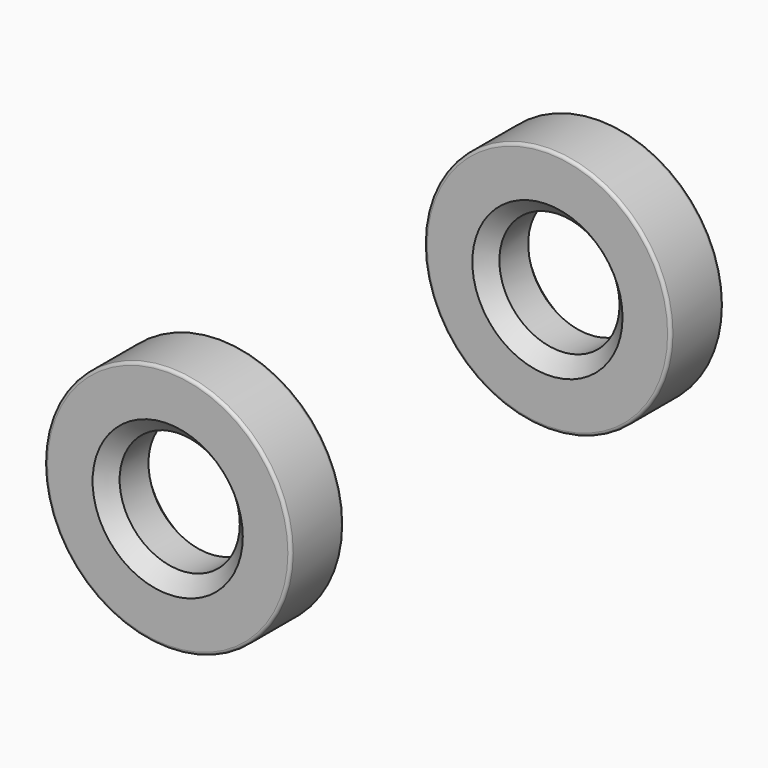
from build123d import *

# Parameters (mm, degrees)
CYLINDER279_R          = 20
CYLINDER279_DEPTH      = 22
CYLINDER279_ROLL_ANGLE = 90
CYLINDER278_R          = 41
CYLINDER278_DEPTH      = 22
CYLINDER278_ROLL_ANGLE = 90
FILLET261_R            = 1
CYLINDER277_R          = 20
CYLINDER277_DEPTH      = 22
CYLINDER277_ROLL_ANGLE = 90
CYLINDER276_R          = 41
CYLINDER276_DEPTH      = 22
CYLINDER276_ROLL_ANGLE = 90
FILLET260_R            = 1
CHAMFER057_SIZE        = 5


with BuildPart() as cylinder279:
    # Cylinder279 → Cylinder279 (new body)
    with BuildSketch(Plane.XY):
        Circle(CYLINDER279_R)
    extrude(amount=CYLINDER279_DEPTH)


with BuildPart() as cylinder279_1:
    # Cylinder279 roll: moved
    add(cylinder279.part.rotate(Axis((0, 0, 0), (1, 0, 0)), CYLINDER279_ROLL_ANGLE))


with BuildPart() as cylinder279_2:
    # Cylinder279 placement: moved
    add(cylinder279_1.part)


with BuildPart() as fillet261:
    # Cylinder278 → Cylinder278 (new body)
    with BuildSketch(Plane.XY):
        Circle(CYLINDER278_R)
    extrude(amount=CYLINDER278_DEPTH)


with BuildPart() as fillet261_1:
    # Cylinder278 roll: moved
    add(fillet261.part.rotate(Axis((0, 0, 0), (1, 0, 0)), CYLINDER278_ROLL_ANGLE))


with BuildPart() as fillet261_2:
    # Cylinder278 placement: moved
    add(fillet261_1.part)

    # Cut422: cut Cylinder279
    add(cylinder279_2.part, mode=Mode.SUBTRACT)

    # Fillet261
    fillet261_edges = [fillet261_2.edges().sort_by_distance(p)[0] for p in [
        (-41, -22, 0),
        (-41, 0, 0),
    ]]
    fillet(fillet261_edges, radius=FILLET261_R)


with BuildPart() as fillet261_3:
    # Fillet261 placement: moved
    add(fillet261_2.part.moved(Location((0, 175, 0))))


with BuildPart() as cylinder277:
    # Cylinder277 → Cylinder277 (new body)
    with BuildSketch(Plane.XY):
        Circle(CYLINDER277_R)
    extrude(amount=CYLINDER277_DEPTH)


with BuildPart() as cylinder277_1:
    # Cylinder277 roll: moved
    add(cylinder277.part.rotate(Axis((0, 0, 0), (1, 0, 0)), CYLINDER277_ROLL_ANGLE))


with BuildPart() as cylinder277_2:
    # Cylinder277 placement: moved
    add(cylinder277_1.part)


with BuildPart() as obj1:
    # Cylinder276 → Cylinder276 (new body)
    with BuildSketch(Plane.XY):
        Circle(CYLINDER276_R)
    extrude(amount=CYLINDER276_DEPTH)


with BuildPart() as obj1_1:
    # Cylinder276 roll: moved
    add(obj1.part.rotate(Axis((0, 0, 0), (1, 0, 0)), CYLINDER276_ROLL_ANGLE))


with BuildPart() as obj1_2:
    # Cylinder276 placement: moved
    add(obj1_1.part)

    # Cut421: cut Cylinder277
    add(cylinder277_2.part, mode=Mode.SUBTRACT)

    # Fillet260
    fillet260_edges = [obj1_2.edges().sort_by_distance(p)[0] for p in [
        (-41, -22, 0),
        (-41, 0, 0),
    ]]
    fillet(fillet260_edges, radius=FILLET260_R)


with BuildPart() as obj1_3:
    # Fillet260 placement: moved
    add(obj1_2.part.moved(Location((0, 17, 0))))

    # Fusion245: union Fillet261
    add(fillet261_3.part)


with BuildPart() as obj1_4:
    # Fusion245 placement: moved
    add(obj1_3.part.moved(Location((98, 0, -51))))

    # Chamfer057
    chamfer057_edges = [obj1_4.edges().sort_by_distance(p)[0] for p in [
        (78, 17, -51),
        (78, -5, -51),
        (78, 175, -51),
        (78, 153, -51),
    ]]
    chamfer(chamfer057_edges, length=CHAMFER057_SIZE)


solid = obj1_4.part
